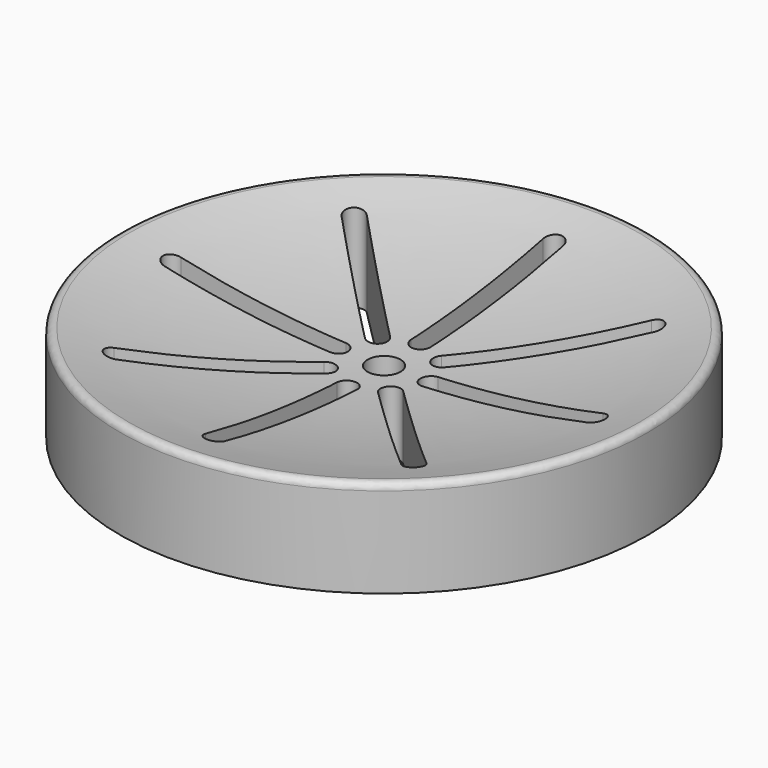
from build123d import *

# Parameters (mm, degrees)
F0_R     = 40
F1_DEPTH = 15
F4_R     = 1
F5_R     = 2.5
F6_DEPTH = 25


with BuildPart() as f1:
    # F0 (on Top) → F1 (new body)
    with BuildSketch(Plane.XY):
        Circle(F0_R)
    extrude(amount=F1_DEPTH)

    # F2 (on Front) → F3 (revolve, cut)
    with BuildSketch(Plane.XZ):
        with BuildLine():
            Line((40, 15), (0, 15))
            Line((0, 15), (0, 9.568323))
            ThreePointArc((0, 9.568323), (20.183552, 10.932445), (40, 15))
        make_face()
    revolve(axis=Axis((0, 0, 12.284161), (0, 0, -1)), mode=Mode.SUBTRACT)

    # F4
    f4_edges = [f1.edges().sort_by_distance(p)[0] for p in [
        (20.183552, 0, 10.932445),
        (-40, 0, 15),
    ]]
    fillet(f4_edges, radius=F4_R)

    # F5 (on Top) → F6 (cut)
    with BuildSketch(Plane.XY):
        Circle(F5_R)
        with BuildLine():
            Line((-1.5, 32), (-1.5, 7))
            ThreePointArc((-1.5, 7), (0, 5.5), (1.5, 7))
            Line((1.5, 7), (1.5, 32))
            ThreePointArc((1.5, 32), (0, 33.5), (-1.5, 32))
        make_face()
        with BuildLine():
            Line((-3.889087, 6.010408), (-21.566757, 23.688077))
            ThreePointArc((-21.566757, 23.688077), (-23.688077, 23.688077), (-23.688077, 21.566757))
            Line((-23.688077, 21.566757), (-6.010408, 3.889087))
            ThreePointArc((-6.010408, 3.889087), (-3.889087, 3.889087), (-3.889087, 6.010408))
        make_face()
        with BuildLine():
            Line((-7, 1.5), (-32, 1.5))
            ThreePointArc((-32, 1.5), (-33.5, 0), (-32, -1.5))
            Line((-32, -1.5), (-7, -1.5))
            ThreePointArc((-7, -1.5), (-5.5, 0), (-7, 1.5))
        make_face()
        with BuildLine():
            Line((-6.010408, -3.889087), (-23.688077, -21.566757))
            ThreePointArc((-23.688077, -21.566757), (-23.688077, -23.688077), (-21.566757, -23.688077))
            Line((-21.566757, -23.688077), (-3.889087, -6.010408))
            ThreePointArc((-3.889087, -6.010408), (-3.889087, -3.889087), (-6.010408, -3.889087))
        make_face()
        with BuildLine():
            Line((-1.5, -7), (-1.5, -32))
            ThreePointArc((-1.5, -32), (0, -33.5), (1.5, -32))
            Line((1.5, -32), (1.5, -7))
            ThreePointArc((1.5, -7), (0, -5.5), (-1.5, -7))
        make_face()
        with BuildLine():
            Line((3.889087, -6.010408), (21.566757, -23.688077))
            ThreePointArc((21.566757, -23.688077), (23.688077, -23.688077), (23.688077, -21.566757))
            Line((23.688077, -21.566757), (6.010408, -3.889087))
            ThreePointArc((6.010408, -3.889087), (3.889087, -3.889087), (3.889087, -6.010408))
        make_face()
        with BuildLine():
            Line((7, -1.5), (32, -1.5))
            ThreePointArc((32, -1.5), (33.5, 0), (32, 1.5))
            Line((32, 1.5), (7, 1.5))
            ThreePointArc((7, 1.5), (5.5, 0), (7, -1.5))
        make_face()
        with BuildLine():
            Line((6.010408, 3.889087), (23.688077, 21.566757))
            ThreePointArc((23.688077, 21.566757), (23.688077, 23.688077), (21.566757, 23.688077))
            Line((21.566757, 23.688077), (3.889087, 6.010408))
            ThreePointArc((3.889087, 6.010408), (3.889087, 3.889087), (6.010408, 3.889087))
        make_face()
    extrude(amount=F6_DEPTH, mode=Mode.SUBTRACT)


solid = f1.part
